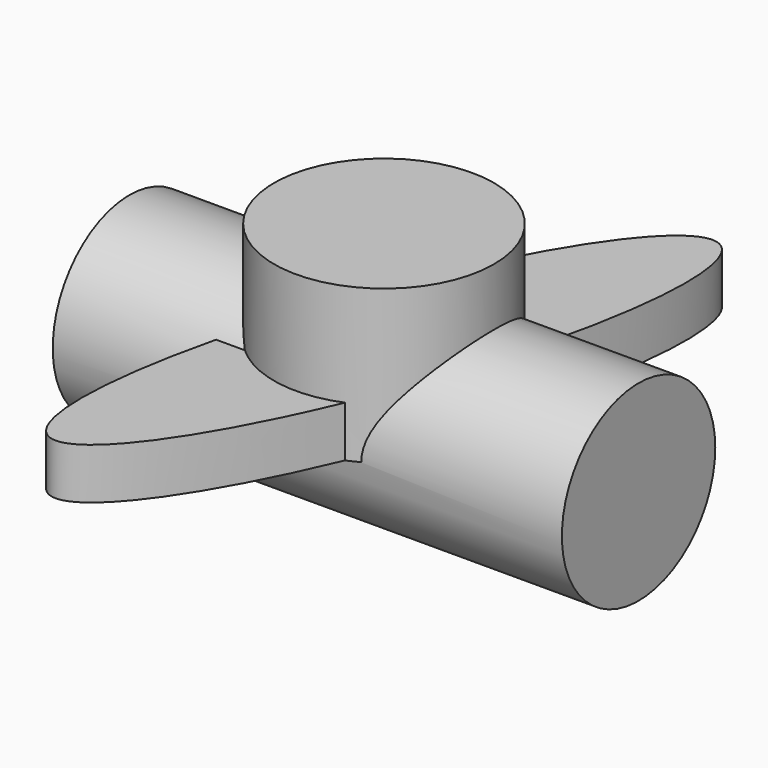
from build123d import *

# Parameters (mm, degrees)
F0_R     = 54.958528
F1_DEPTH = 76.682307
F3_DEPTH = 25.4
F4_R     = 47.883921
F5_DEPTH = 127.17773


with BuildPart() as f1:
    # F0 (on Top) → F1 (new body)
    with BuildSketch(Plane.XY):
        Circle(F0_R)
    extrude(amount=F1_DEPTH)

    # F2 (on Top) → F3 (join)
    with BuildSketch(Plane.XY):
        with BuildLine():
            add(Edge.make_bspline(
                [(50.235592, 145.712793), (-11.763133, 167.087324), (-56.117159, -62.169131), (-100.471184, -291.425586), (5.881567, -83.543662), (112.234317, 124.338262), (50.235592, 145.712793)],
                knots=[0, 0, 0, 2.094395, 2.094395, 4.18879, 4.18879, 6.283185, 6.283185, 6.283185], degree=2, weights=[1, 0.5, 1, 0.5, 1, 0.5, 1]))
        make_face()
    extrude(amount=F3_DEPTH)

    # F4 (on Right) → F5 (join, symmetric)
    with BuildSketch(Plane.YZ):
        Circle(F4_R)
    extrude(amount=F5_DEPTH, both=True)


solid = f1.part
